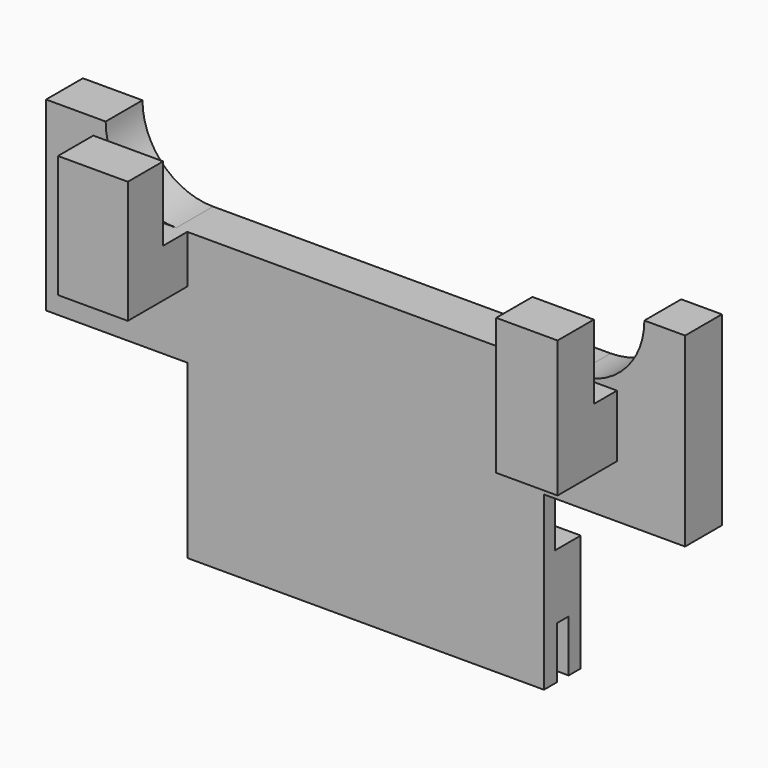
from build123d import *

# Parameters (mm, degrees)
F1_DEPTH  = 48
F3_DEPTH  = 19
F5_DEPTH  = 19
F7_DEPTH  = 25
F9_DEPTH  = 10
F10_W     = 9.3963341787
F10_H     = 5.939177354
F11_DEPTH = 10
F12_W     = 8.2590989769
F12_H     = 6.0978346739
F13_DEPTH = 10


with BuildPart() as f1:
    # F0 (on Right) → F1 (new body)
    with BuildSketch(Plane.YZ):
        Polygon((-4.4177471522, 4.4790807286), (-2.2589041686, 4.4790807286), (-2.2589041686, 11.4790807286), (-0.2589041686, 11.4790807286), (-0.2589041686, 4.4790807286), (1.774286502, 4.4790807286), (1.774286502, 20.2315860614), (-2.5690435432, 20.2315860614), (-2.5690435432, 27.6196174324), (1.774286502, 27.6196174324), (1.774286502, 52.6196174324), (-4.4177471522, 52.6196174324), align=None)
    extrude(amount=F1_DEPTH)

    # F2 (on face) → F3 (join)
    with BuildSketch(Plane(origin=(0, 0, 0), x_dir=(0, -1, 0), z_dir=(-1, 0, 0))):
        Polygon((2.5690435432, 27.6196174324), (4.4177471522, 27.6196174324), (4.4177471522, 52.6196174324), (-1.774286502, 52.6196174324), (-1.774286502, 27.6196174324), align=None)
    extrude(amount=F3_DEPTH)

    # F4 (on face) → F5 (join)
    with BuildSketch(Plane.YZ.offset(48)):
        Polygon((1.774286502, 52.6196174324), (-4.4177471522, 52.6196174324), (-4.4177471522, 27.6196174324), (-2.5690435432, 27.6196174324), (1.774286502, 27.6196174324), align=None)
    extrude(amount=F5_DEPTH)

    # F6 (on face) → F7 (cut)
    with BuildSketch(Plane(origin=(0, 1.774286502, 0), x_dir=(-1, 0, 0), z_dir=(0, 1, 0))):
        with BuildLine():
            ThreePointArc((-61.5190799241, 52.6196174324), (-58.7365943454, 45.9021030111), (-52.0190799241, 43.1196174324))
            ThreePointArc((-52.0190799241, 43.1196174324), (-45.3015655028, 45.9021030111), (-42.5190799241, 52.6196174324))
            Line((-42.5190799241, 52.6196174324), (-61.5190799241, 52.6196174324))
        make_face()
        with BuildLine():
            ThreePointArc((-8.0190799241, 52.6196174324), (-5.2365943454, 45.9021030111), (1.4809200759, 43.1196174324))
            ThreePointArc((1.4809200759, 43.1196174324), (8.1984344972, 45.9021030111), (10.9809200759, 52.6196174324))
            Line((10.9809200759, 52.6196174324), (-8.0190799241, 52.6196174324))
        make_face()
        with BuildLine():
            ThreePointArc((-42.5190799241, 52.6196174324), (-45.3015655028, 45.9021030111), (-52.0190799241, 43.1196174324))
            Line((-52.0190799241, 43.1196174324), (1.4809200759, 43.1196174324))
            ThreePointArc((1.4809200759, 43.1196174324), (-5.2365943454, 45.9021030111), (-8.0190799241, 52.6196174324))
            Line((-8.0190799241, 52.6196174324), (-42.5190799241, 52.6196174324))
        make_face()
    extrude(amount=-F7_DEPTH, mode=Mode.SUBTRACT)

    # F8 (on face) → F9 (join)
    with BuildSketch(Plane.XZ.offset(4.4177471522)):
        Polygon((0, 36.6360321641), (0, 43.1196174324), (-1.4809200759, 43.1196174324), (-9.3963341787, 43.1196174324), (-9.3963341787, 36.6360321641), align=None)
        Polygon((52.0190799241, 43.1196174324), (49.577344209, 43.1196174324), (49.577344209, 34.7543694079), (57.8364431858, 34.7543694079), (57.8364431858, 43.1196174324), align=None)
    extrude(amount=F9_DEPTH)

    # F10 (on face) → F11 (join)
    with BuildSketch(Plane.XY.offset(43.1196174324)):
        with Locations((-4.6981670894, -11.4481584752)):
            Rectangle(F10_W, F10_H)
    extrude(amount=F11_DEPTH)

    # F12 (on face) → F13 (join)
    with BuildSketch(Plane.XY.offset(43.1196174324)):
        with Locations((53.7068936974, -11.3688298153)):
            Rectangle(F12_W, F12_H)
    extrude(amount=F13_DEPTH)


solid = f1.part
